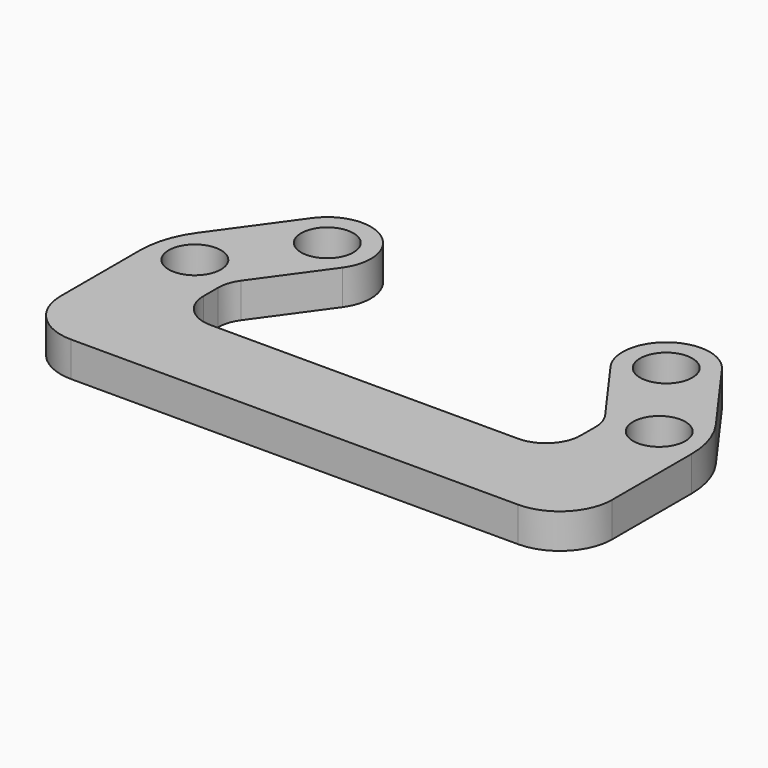
from build123d import *

# Parameters (mm, degrees)
F0_R     = 1.5
F1_DEPTH = 2


with BuildPart() as f1:
    # F0 (on Top) → F1 (new body)
    with BuildSketch(Plane.XY):
        with BuildLine():
            ThreePointArc((-56.193922, 8.767486), (-55.315242, 6.646166), (-53.193922, 5.767486))
            Line((-53.193922, 5.767486), (-27.543922, 5.767486))
            ThreePointArc((-27.543922, 5.767486), (-25.422601, 6.646166), (-24.543922, 8.767486))
            Line((-24.543922, 8.767486), (-24.543922, 14.461119))
            ThreePointArc((-24.543922, 14.461119), (-24.785332, 15.995987), (-25.48625, 17.382643))
            Line((-25.48625, 17.382643), (-28.615086, 21.728248))
            ThreePointArc((-28.615086, 21.728248), (-32.104684, 22.296322), (-32.672758, 18.806724))
            Line((-32.672758, 18.806724), (-29.920853, 14.984635))
            ThreePointArc((-29.920853, 14.984635), (-29.640486, 14.429972), (-29.543922, 13.816025))
            Line((-29.543922, 13.816025), (-29.543922, 12.767486))
            ThreePointArc((-29.543922, 12.767486), (-30.129708, 11.353272), (-31.543922, 10.767486))
            Line((-31.543922, 10.767486), (-49.193922, 10.767486))
            ThreePointArc((-49.193922, 10.767486), (-50.608135, 11.353272), (-51.193922, 12.767486))
            Line((-51.193922, 12.767486), (-51.193922, 13.816024))
            ThreePointArc((-51.193922, 13.816024), (-51.097358, 14.429971), (-50.81699, 14.984633))
            Line((-50.81699, 14.984633), (-48.065085, 18.806724))
            ThreePointArc((-48.065085, 18.806724), (-48.633159, 22.296322), (-52.122757, 21.728248))
            Line((-52.122757, 21.728248), (-55.251593, 17.382643))
            ThreePointArc((-55.251593, 17.382643), (-55.952512, 15.995987), (-56.193922, 14.461119))
            Line((-56.193922, 14.461119), (-56.193922, 8.767486))
        make_face()
        with Locations((-53.693922, 15.267486)):
            Circle(F0_R, mode=Mode.SUBTRACT)
        with Locations((-50.093921, 20.267486)):
            Circle(F0_R, mode=Mode.SUBTRACT)
        with Locations((-27.043922, 15.267486)):
            Circle(F0_R, mode=Mode.SUBTRACT)
        with Locations((-30.643922, 20.267486)):
            Circle(F0_R, mode=Mode.SUBTRACT)
    extrude(amount=F1_DEPTH)


solid = f1.part
